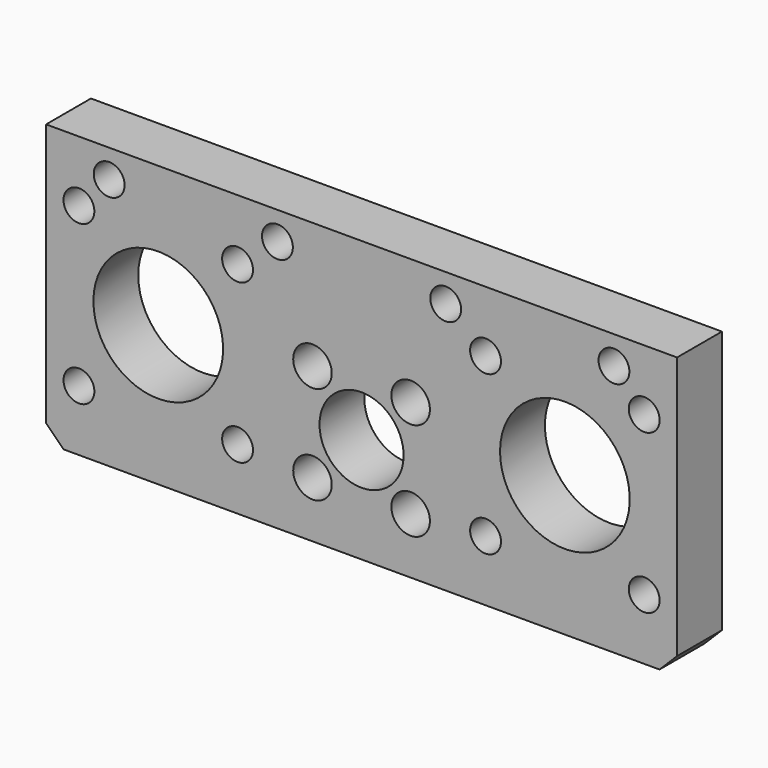
from build123d import *

# Parameters (mm, degrees)
F0_W     = 90
F0_H     = 40
F1_DEPTH = 8
F2_SIZE  = 2.5
F4_D     = 4.4
F5_D     = 4.4
F6_D     = 18.5
F7_D     = 12
F8_D     = 5.5


with BuildPart() as f1:
    # F0 (on Front) → F1 (new body)
    with BuildSketch(Plane.XZ):
        Rectangle(F0_W, F0_H)
    extrude(amount=F1_DEPTH)

    # F2
    f2_edges = [f1.edges().sort_by_distance(p)[0] for p in [
        (-45, -4, -20),
        (45, -4, -20),
    ]]
    chamfer(f2_edges, length=F2_SIZE)

    # F4 (through all)
    with Locations(Plane.XZ.offset(8)):
        with Locations((-36, 16), (-12, 16), (12, 16), (36, 16)):
            Hole(F4_D / 2)

    # F5 (through all)
    with Locations(Plane.XZ.offset(8)):
        with Locations((-40.313708499, 11.313708499), (-17.686291501, 11.313708499), (-17.686291501, -11.313708499), (-40.313708499, -11.313708499), (17.686291501, 11.313708499), (40.313708499, 11.313708499), (40.313708499, -11.313708499), (17.686291501, -11.313708499)):
            Hole(F5_D / 2)

    # F6 (through all)
    with Locations(Plane.XZ.offset(8)):
        with Locations((-29, 0), (29, 0)):
            Hole(F6_D / 2)

    # F7 (through all)
    with Locations(Plane.XZ.offset(8)):
        with Locations((0, -5)):
            Hole(F7_D / 2)

    # F8 (through all)
    with Locations(Plane.XZ.offset(8)):
        with Locations((7, -12), (-7, 2), (7, 2), (-7, -12)):
            Hole(F8_D / 2)


solid = f1.part
